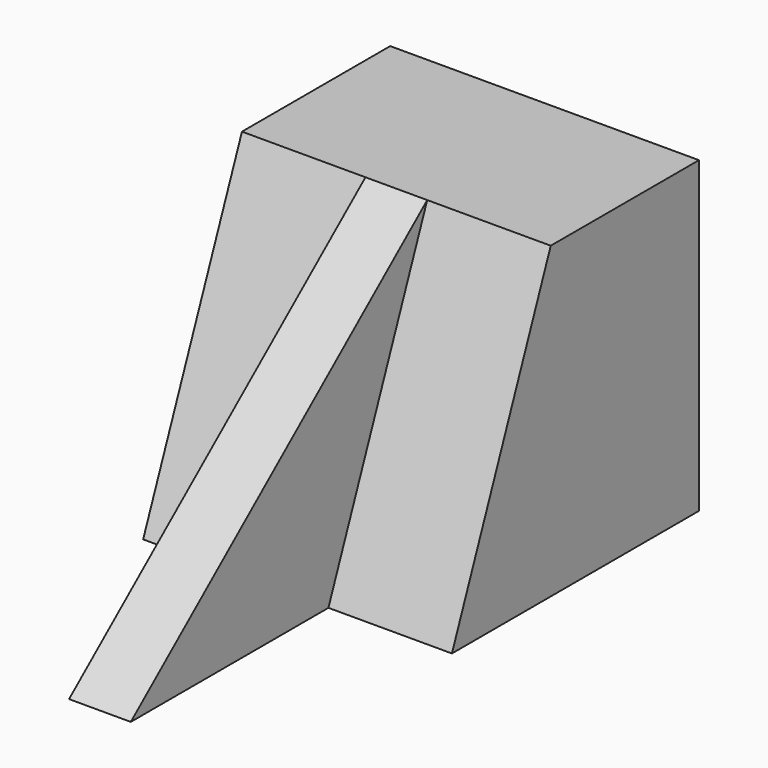
from build123d import *

# Parameters (mm, degrees)
F0_W     = 31.75
F0_H     = 31.75
F1_DEPTH = 57.15
F3_DEPTH = 12.7
F5_DEPTH = 12.7
F7_DEPTH = 12.7
F9_DEPTH = 12.7


with BuildPart() as f1:
    # F0 (on Front) → F1 (new body)
    with BuildSketch(Plane.XZ):
        with Locations((15.875, 15.875)):
            Rectangle(F0_W, F0_H)
    extrude(amount=F1_DEPTH)

    # F2 (on face) → F3 (cut)
    with BuildSketch(Plane(origin=(0, 0, 0), x_dir=(0, -1, 0), z_dir=(-1, 0, 0))):
        Polygon((57.15, 31.75), (19.05, 31.75), (31.75, 0), (57.15, 0), align=None)
    extrude(amount=-F3_DEPTH, mode=Mode.SUBTRACT)

    # F4 (on face) → F5 (cut)
    with BuildSketch(Plane.YZ.offset(19.05)):
        Polygon((-57.15, 0), (-19.05, 31.75), (-57.15, 31.75), align=None)
    extrude(amount=-F5_DEPTH, mode=Mode.SUBTRACT)

    # F6 (on face) → F7 (cut)
    with BuildSketch(Plane.YZ.offset(31.75)):
        Polygon((-57.15, 31.75), (-57.15, 0), (-19.05, 31.75), align=None)
    extrude(amount=-F7_DEPTH, mode=Mode.SUBTRACT)

    # F8 (on face) → F9 (cut)
    with BuildSketch(Plane.YZ.offset(31.75)):
        Polygon((-31.75, 0), (-19.05, 31.75), (-57.15, 0), align=None)
    extrude(amount=-F9_DEPTH, mode=Mode.SUBTRACT)


solid = f1.part
